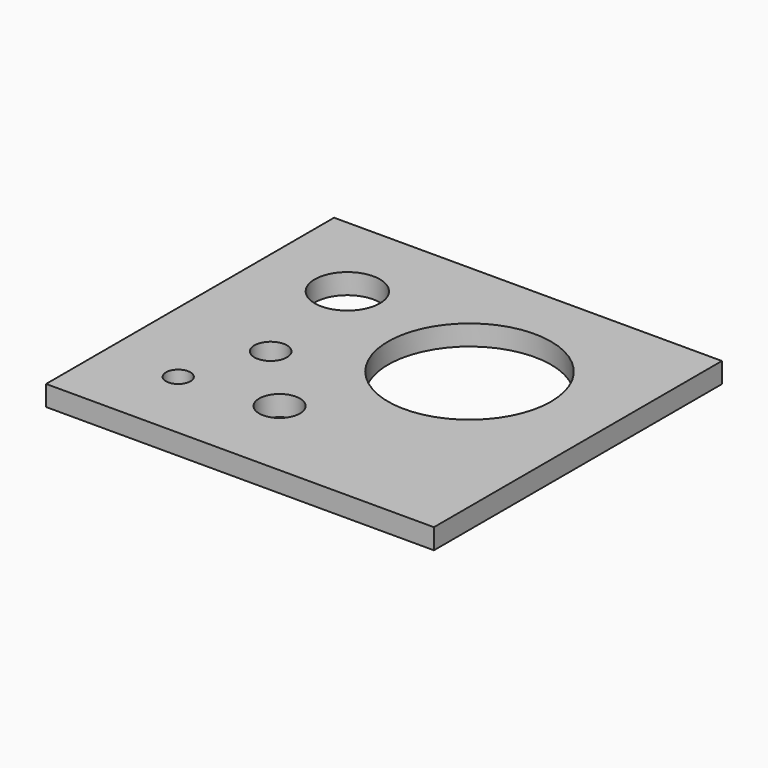
from build123d import *

# Parameters (mm, degrees)
F0_W     = 47.618939
F0_H     = 44.201614
F1_DEPTH = 2.5
F2_R     = 1.5
F2_R_2   = 4
F2_R_3   = 10
F2_R_4   = 2
F2_R_5   = 2.5
F3_DEPTH = 3


with BuildPart() as f1:
    # F0 (on Top) → F1 (new body)
    with BuildSketch(Plane.XY):
        with Locations((-13.660291, -2.413307)):
            Rectangle(F0_W, F0_H)
    extrude(amount=F1_DEPTH)

    # F2 (on face) → F3 (cut)
    with BuildSketch(Plane.XY.offset(2.5)):
        with Locations((-28.498942, -15.442959)):
            Circle(F2_R)
        with Locations((-26.924081, 8.540832)):
            Circle(F2_R_2)
        with Locations((-7.369592, 2.851935)):
            Circle(F2_R_3)
        with Locations((-24.879986, -5.78077)):
            Circle(F2_R_4)
        with Locations((-17.126655, -14.109089)):
            Circle(F2_R_5)
    extrude(amount=-F3_DEPTH, mode=Mode.SUBTRACT)


solid = f1.part
